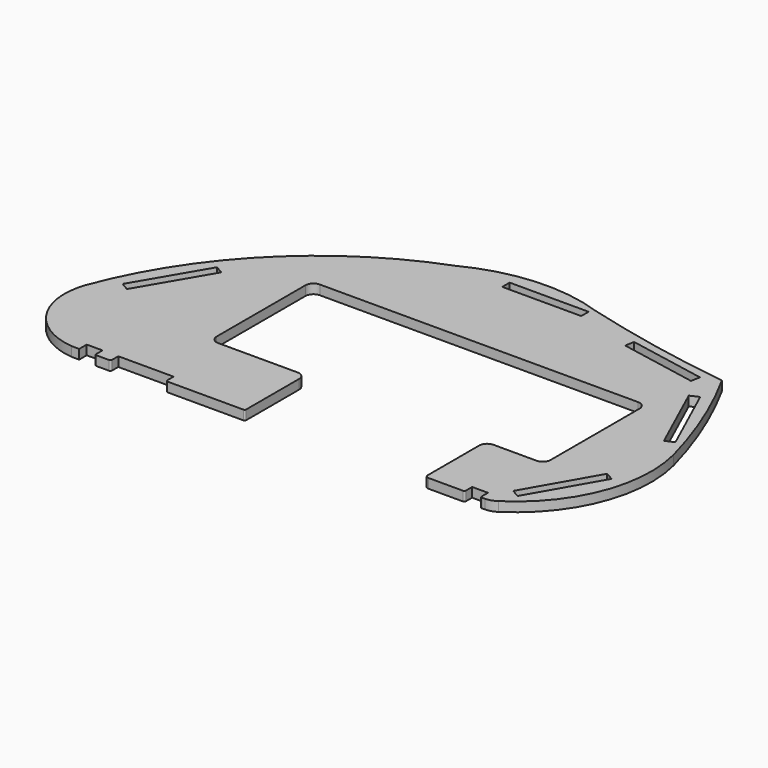
from build123d import *

# Parameters (mm, degrees)
F1_DEPTH = 6
F2_R     = 5
F3_W     = 50
F3_H     = 5.87
F4_DEPTH = 25


with BuildPart() as f1:
    # F0 (on Top) → F1 (new body)
    with BuildSketch(Plane.XY):
        with BuildLine():
            ThreePointArc((170.193543, -19.389994), (173.797456, -18.835445), (177.068441, -17.224121))
            ThreePointArc((177.068441, -17.224121), (210.314706, 23.380525), (213.658845, 75.752924))
            ThreePointArc((213.658845, 75.752924), (200.483313, 115.151894), (182.680857, 152.687823))
            ThreePointArc((182.680857, 152.687823), (134.513109, 160.754816), (86.985857, 171.996198))
            ThreePointArc((86.985857, 171.996198), (44.36332, 177.732663), (2.913726, 166.264491))
            ThreePointArc((2.913726, 166.264491), (-76.082674, 115.030345), (-126.918851, 35.777256))
            ThreePointArc((-126.918851, 35.777256), (-122.637212, -0.376763), (-91.614817, -19.430806))
            Line((-91.614817, -19.430806), (-86.660196, -19.485899))
            Line((-86.660196, -19.485899), (-86.660196, -13.485899))
            Line((-86.660196, -13.485899), (-76.660196, -13.485899))
            Line((-76.660196, -13.485899), (-76.660196, -18.485899))
            ThreePointArc((-76.660196, -18.485899), (-76.367303, -19.193006), (-75.660196, -19.485899))
            Line((-75.660196, -19.485899), (-67.660196, -19.485899))
            ThreePointArc((-67.660196, -19.485899), (-66.953089, -19.193006), (-66.660196, -18.485899))
            Line((-66.660196, -18.485899), (-66.660196, -13.485899))
            Line((-66.660196, -13.485899), (-31.660196, -13.485899))
            Line((-31.660196, -13.485899), (-31.660196, -18.485899))
            ThreePointArc((-31.660196, -18.485899), (-31.367303, -19.193006), (-30.660196, -19.485899))
            Line((-30.660196, -19.485899), (17.339804, -19.485899))
            ThreePointArc((17.339804, -19.485899), (18.046911, -19.193006), (18.339804, -18.485899))
            Line((18.339804, -18.485899), (18.339804, -13.485899))
            Line((18.339804, -13.485899), (18.339804, 28.364893))
            Line((18.339804, 28.364893), (-41.863095, 28.364893))
            Line((-41.863095, 28.364893), (-41.863095, 108.756206))
            Line((-41.863095, 108.756206), (169.688459, 108.756206))
            Line((169.688459, 108.756206), (169.688459, 28.364893))
            Line((169.688459, 28.364893), (132.439804, 28.364893))
            Line((132.439804, 28.364893), (132.439804, -13.485899))
            Line((132.439804, -13.485899), (132.439804, -17.485899))
            ThreePointArc((132.439804, -17.485899), (133.02559, -18.900112), (134.439804, -19.485899))
            Line((134.439804, -19.485899), (156.439804, -19.485899))
            ThreePointArc((156.439804, -19.485899), (157.146911, -19.193006), (157.439804, -18.485899))
            Line((157.439804, -18.485899), (157.439804, -13.485899))
            Line((157.439804, -13.485899), (167.439804, -13.485899))
            Line((167.439804, -13.485899), (167.439804, -18.450465))
            ThreePointArc((167.439804, -18.450465), (167.745112, -19.169773), (168.47461, -19.44986))
            Line((168.47461, -19.44986), (170.193543, -19.389994))
        make_face()
    extrude(amount=F1_DEPTH)

    # F2
    f2_edges = [f1.edges().sort_by_distance(p)[0] for p in [
        (-41.863095, 108.756206, 3),
        (-41.863095, 28.364893, 3),
        (18.339804, 28.364893, 3),
        (169.688459, 108.756206, 3),
        (169.688459, 28.364893, 3),
        (132.439804, 28.364893, 3),
    ]]
    fillet(f2_edges, radius=F2_R)

    # F3 (on face) → F4 (cut)
    with BuildSketch(Plane.XY.offset(6)):
        Polygon((-88.078382, 91.432652), (-113.348544, 48.288487), (-108.283419, 45.32177), (-83.013257, 88.465935), align=None)
        with Locations((60.208148, 166.061319)):
            Rectangle(F3_W, F3_H)
        Polygon((172.10519, 148.548136), (122.972107, 157.818528), (121.883763, 152.050304), (171.016846, 142.779912), align=None)
        Polygon((205.997825, 86.744264), (185.293966, 132.256353), (179.950847, 129.82572), (200.654705, 84.313631), align=None)
        Polygon((175.953445, -4.115971), (181.050032, -7.028307), (205.856984, 36.383847), (200.760397, 39.296184), align=None)
    extrude(amount=-F4_DEPTH, mode=Mode.SUBTRACT)


solid = f1.part
